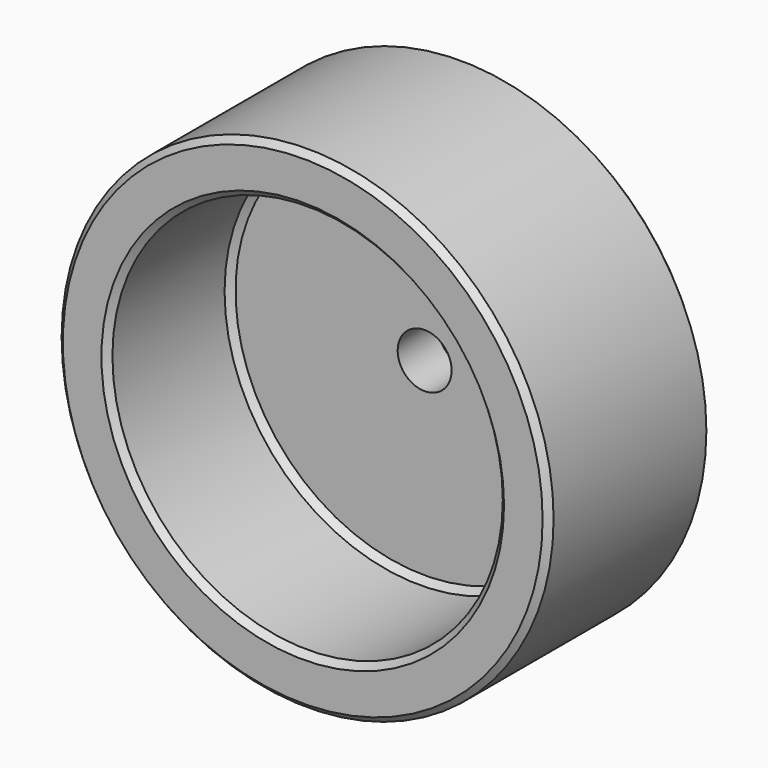
from build123d import *

# Parameters (mm, degrees)
F0_R     = 61.50483
F0_R_2   = 48.80483
F1_DEPTH = 38.1
F2_DEPTH = 12.7
F3_D     = 13.49248
F3_DEPTH = 31.2674
F3_TIP   = 4.0535499425
F4_SIZE  = 1.524


with BuildPart() as f1:
    # F0 (on Front) → F1 (new body)
    with BuildSketch(Plane.XZ):
        Circle(F0_R)
        Circle(F0_R_2, mode=Mode.SUBTRACT)
    extrude(amount=F1_DEPTH)

    # F0 (on Front) → F2 (join)
    with BuildSketch(Plane.XZ):
        Circle(F0_R)
        Circle(F0_R_2, mode=Mode.SUBTRACT)
        Circle(F0_R_2)
    extrude(amount=-F2_DEPTH)

    # F3
    with Locations(Plane.XZ):
        with Locations((0, 0)):
            Hole(F3_D / 2, depth=F3_DEPTH)
            with Locations((0, 0, -(F3_DEPTH + F3_TIP / 2))):  # 118° drill point
                Cone(0, F3_D / 2, F3_TIP, mode=Mode.SUBTRACT)

    # F4
    f4_edges = [f1.edges().sort_by_distance(p)[0] for p in [
        (61.50483, -19.05, 0),
        (-61.50483, 0, 0),
        (-61.50483, -38.1, 0),
        (61.50483, 6.35, 0),
        (-61.50483, 12.7, 0),
        (48.80483, -19.05, 0),
        (-48.80483, 0, 0),
        (-48.80483, -38.1, 0),
    ]]
    chamfer(f4_edges, length=F4_SIZE)


solid = f1.part
